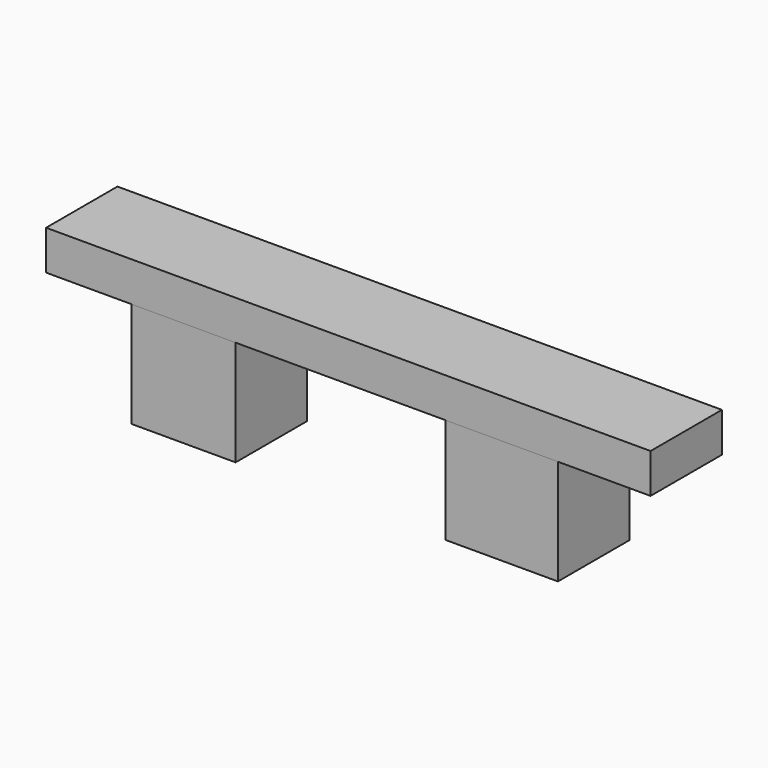
from build123d import *

# Parameters (mm, degrees)
F0_W     = 8.0131450668
F0_H     = 6.8762861192
F1_DEPTH = 8.128
F0_W_2   = 8.6642354727
F2_W     = 6.5987631679
F2_H     = 6.8762861192
F2_W_2   = 31.9918533787
F2_W_3   = 8.0131450668
F3_DEPTH = 3.048


with BuildPart() as f1:
    # F0 (on Top) → F1 (new body)
    with BuildSketch(Plane.XY):
        with Locations((4.0065725334, -3.4381430596)):
            Rectangle(F0_W, F0_H)
    extrude(amount=F1_DEPTH)


with BuildPart() as f1b:
    # F0 (on Top) → F1, piece 2 (new body)
    with BuildSketch(Plane.XY):
        with Locations((28.5298973322, -3.4381430596)):
            Rectangle(F0_W_2, F0_H)
    extrude(amount=F1_DEPTH)


with BuildPart() as f3:
    # F2 (on face) → F3 (new body)
    with BuildSketch(Plane.XY.offset(8.128)):
        with Locations((-3.2993815839, -3.4381430596)):
            Rectangle(F2_W, F2_H)
        with Locations((24.0090717562, -3.4381430596)):
            Rectangle(F2_W_2, F2_H)
        with Locations((4.0065725334, -3.4381430596)):
            Rectangle(F2_W_3, F2_H)
    extrude(amount=F3_DEPTH)


solid = Compound([f1.part, f1b.part, f3.part])
